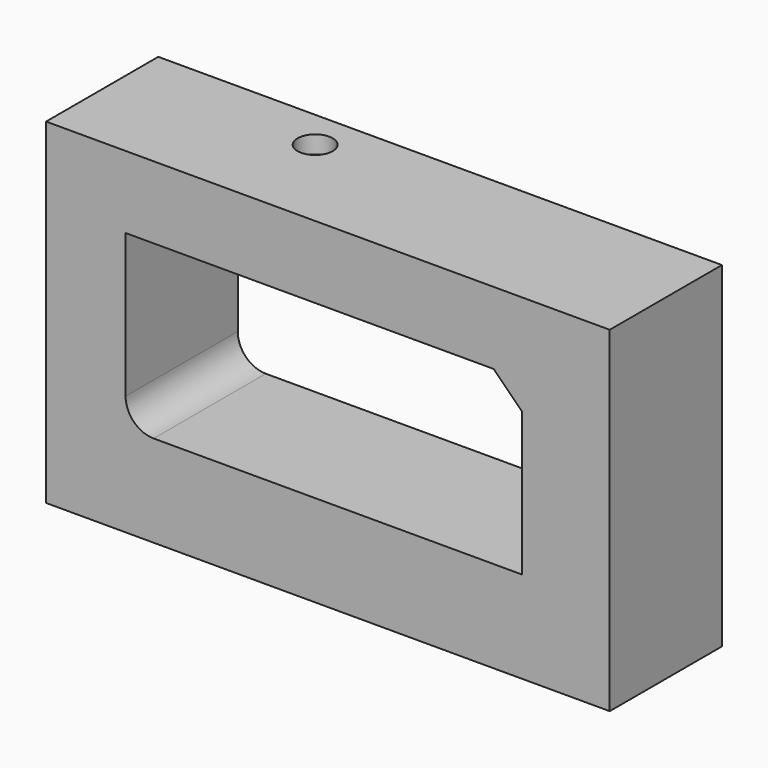
from build123d import *

# Parameters (mm, degrees)
F0_W     = 102.0963229239
F0_H     = 60.8206074685
F1_DEPTH = 25.4
F2_W     = 71.7670321465
F2_H     = 31.1110951006
F3_DEPTH = 25.401
F4_R     = 5.08
F5_SIZE  = 5.08
F7_D     = 6.35
F7_DEPTH = 3.175
F7_TIP   = 1.9077324654


with BuildPart() as f1:
    # F0 (on Front) → F1 (new body)
    with BuildSketch(Plane.XZ):
        with Locations((-13.5734956712, 13.7862348929)):
            Rectangle(F0_W, F0_H)
    extrude(amount=F1_DEPTH)

    # F2 (on face) → F3 (cut, through all)
    with BuildSketch(Plane.XZ.offset(25.4)):
        with Locations((-14.3382139504, 15.5555475503)):
            Rectangle(F2_W, F2_H)
    extrude(amount=-F3_DEPTH, mode=Mode.SUBTRACT)

    # F4
    f4_edges = [f1.edges().sort_by_distance(p)[0] for p in [
        (-50.22173, -12.7, 0),
    ]]
    fillet(f4_edges, radius=F4_R)

    # F5
    f5_edges = [f1.edges().sort_by_distance(p)[0] for p in [
        (21.545302, -12.7, 31.111095),
    ]]
    chamfer(f5_edges, length=F5_SIZE)

    # F7
    with Locations(Plane.XY.offset(44.1965386271)):
        with Locations((-30.4787158966, -7.1609793231)):
            Hole(F7_D / 2, depth=F7_DEPTH)
            with Locations((0, 0, -(F7_DEPTH + F7_TIP / 2))):  # 118° drill point
                Cone(0, F7_D / 2, F7_TIP, mode=Mode.SUBTRACT)


solid = f1.part
